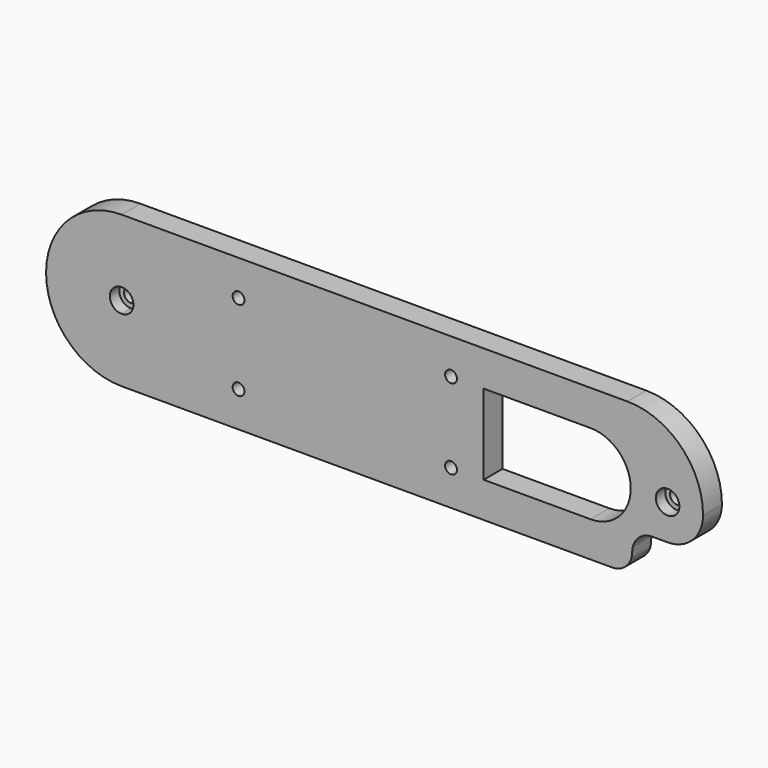
from build123d import *

# Parameters (mm, degrees)
F0_R     = 3.175
F0_R_2   = 6.35
F1_DEPTH = 12.7
F2_DEPTH = 6.35
F0_R_3   = 3.81
F3_DEPTH = 6.35


with BuildPart() as f1:
    # F0 (on Front) → F1 (new body)
    with BuildSketch(Plane.XZ):
        with BuildLine():
            ThreePointArc((-140.4550125721, -108.3747648736), (-137.293230275, -100.7415471707), (-129.6600125721, -97.5797648736))
            Line((-129.6600125721, -97.5797648736), (-122.9925125721, -97.5797648736))
            Line((-122.9925125721, -97.5797648736), (-121.4050125721, -97.5797648736))
            ThreePointArc((-121.4050125721, -97.5797648736), (-107.9346283905, -92.0001490552), (-102.3550125721, -78.5297648736))
            ThreePointArc((-102.3550125721, -78.5297648736), (-114.2581929847, -49.7929452862), (-142.9950125721, -37.8897648736))
            Line((-142.9950125721, -37.8897648736), (-150.1512528809, -37.8897648736))
            Line((-150.1512528809, -37.8897648736), (-415.0925125721, -37.8897648736))
            Line((-415.0925125721, -37.8897648736), (-415.0925125721, -72.1797648736))
            ThreePointArc((-415.0925125721, -72.1797648736), (-410.6023845116, -74.0396368131), (-408.7425125721, -78.5297648736))
            ThreePointArc((-408.7425125721, -78.5297648736), (-410.6023845116, -83.0198929341), (-415.0925125721, -84.8797648736))
            Line((-415.0925125721, -84.8797648736), (-415.0925125721, -119.1697648736))
            Line((-415.0925125721, -119.1697648736), (-151.2500125721, -119.1697648736))
            ThreePointArc((-151.2500125721, -119.1697648736), (-143.6167948692, -116.0079825765), (-140.4550125721, -108.3747648736))
        make_face()
        with Locations((-352.2111295721, -100.1197648736)):
            Circle(F0_R, mode=Mode.SUBTRACT)
        with Locations((-237.9111295721, -100.1197648736)):
            Circle(F0_R, mode=Mode.SUBTRACT)
        with BuildLine():
            ThreePointArc((-162.8412207992, -56.9397648736), (-141.2512207992, -78.5297648736), (-162.8412207992, -100.1197648736))
            Line((-162.8412207992, -100.1197648736), (-220.3693254323, -100.1197648736))
            Line((-220.3693254323, -100.1197648736), (-220.3693254323, -56.9397648736))
            Line((-220.3693254323, -56.9397648736), (-162.8412207992, -56.9397648736))
        make_face(mode=Mode.SUBTRACT)
        with Locations((-121.4050125721, -78.5297648736)):
            Circle(F0_R_2, mode=Mode.SUBTRACT)
        with Locations((-352.2111295721, -56.9397648736)):
            Circle(F0_R, mode=Mode.SUBTRACT)
        with Locations((-237.9111295721, -56.9397648736)):
            Circle(F0_R, mode=Mode.SUBTRACT)
        with BuildLine():
            ThreePointArc((-415.0925125721, -37.8897648736), (-455.7325125721, -78.5297648736), (-415.0925125721, -119.1697648736))
            Line((-415.0925125721, -119.1697648736), (-415.0925125721, -84.8797648736))
            ThreePointArc((-415.0925125721, -84.8797648736), (-421.4425125721, -78.5297648736), (-415.0925125721, -72.1797648736))
            Line((-415.0925125721, -72.1797648736), (-415.0925125721, -37.8897648736))
        make_face()
    extrude(amount=F1_DEPTH)

    # F0 (on Front) → F2 (join)
    with BuildSketch(Plane.XZ):
        with BuildLine():
            ThreePointArc((-415.0925125721, -72.1797648736), (-421.4425125721, -78.5297648736), (-415.0925125721, -84.8797648736))
            Line((-415.0925125721, -84.8797648736), (-415.0925125721, -82.3397648736))
            ThreePointArc((-415.0925125721, -82.3397648736), (-418.9025125721, -78.5297648736), (-415.0925125721, -74.7197648736))
            Line((-415.0925125721, -74.7197648736), (-415.0925125721, -72.1797648736))
        make_face()
        with BuildLine():
            Line((-415.0925125721, -82.3397648736), (-415.0925125721, -84.8797648736))
            ThreePointArc((-415.0925125721, -84.8797648736), (-410.6023845116, -83.0198929341), (-408.7425125721, -78.5297648736))
            ThreePointArc((-408.7425125721, -78.5297648736), (-410.6023845116, -74.0396368131), (-415.0925125721, -72.1797648736))
            Line((-415.0925125721, -72.1797648736), (-415.0925125721, -74.7197648736))
            ThreePointArc((-415.0925125721, -74.7197648736), (-412.3984357358, -75.8356880373), (-411.2825125721, -78.5297648736))
            ThreePointArc((-411.2825125721, -78.5297648736), (-412.3984357358, -81.2238417099), (-415.0925125721, -82.3397648736))
        make_face()
    extrude(amount=F2_DEPTH)

    # F0 (on Front) → F3 (join)
    with BuildSketch(Plane.XZ):
        with Locations((-121.4050125721, -78.5297648736)):
            Circle(F0_R_2)
        with Locations((-121.4050125721, -78.5297648736)):
            Circle(F0_R_3, mode=Mode.SUBTRACT)
    extrude(amount=F3_DEPTH)


solid = f1.part
